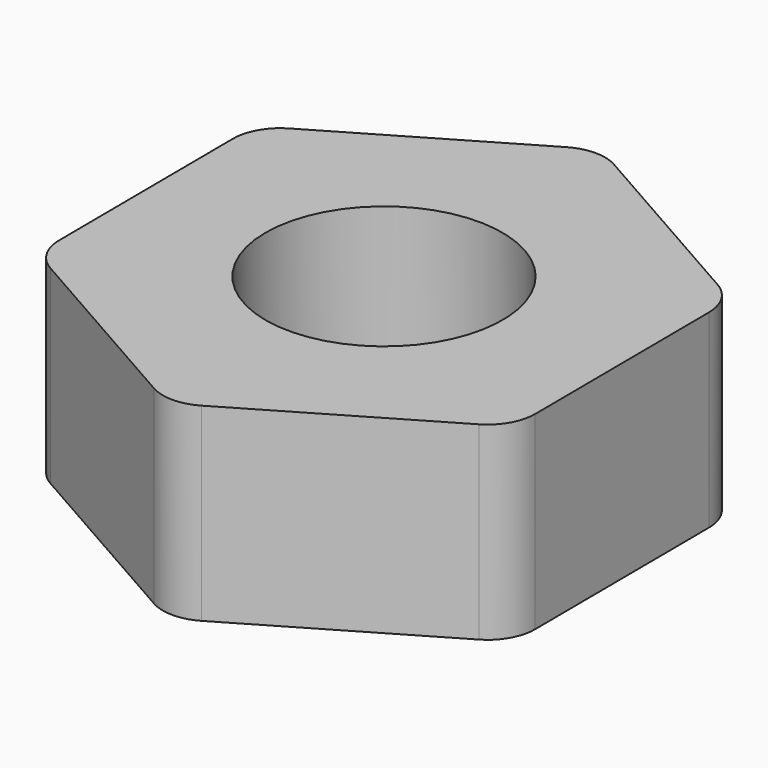
from build123d import *

# Parameters (mm, degrees)
F1_DEPTH = 4
F3_D     = 5
F3_DEPTH = 10
F3_TIP   = 1.5021515476
F4_R     = 1
F5_SCALE = 0.5


with BuildPart() as f1:
    # F0 (on Top) → F1 (new body)
    with BuildSketch(Plane.XY):
        Polygon((0.0366512368, -5.7733863564), (5.0182248689, -2.8549522761), (4.9815736321, 2.9184340803), (-0.0366512368, 5.7733863564), (-5.0182248689, 2.8549522761), (-4.9815736321, -2.9184340803), align=None)
    extrude(amount=F1_DEPTH)

    # F3
    with Locations(Plane.XY.offset(4)):
        with Locations((0, 0)):
            Hole(F3_D / 2, depth=F3_DEPTH)
            with Locations((0, 0, -(F3_DEPTH + F3_TIP / 2))):  # 118° drill point
                Cone(0, F3_D / 2, F3_TIP, mode=Mode.SUBTRACT)

    # F4
    f4_edges = [f1.edges().sort_by_distance(p)[0] for p in [
        (-5.018225, 2.854952, 2),
        (-0.036651, 5.773386, 2),
        (-4.981574, -2.918434, 2),
        (0.036651, -5.773386, 2),
        (5.018225, -2.854952, 2),
        (4.981574, 2.918434, 2),
    ]]
    fillet(f4_edges, radius=F4_R)


with BuildPart() as f1_1:
    # F5: moved
    add(f1.part.scale(F5_SCALE))


solid = f1_1.part
